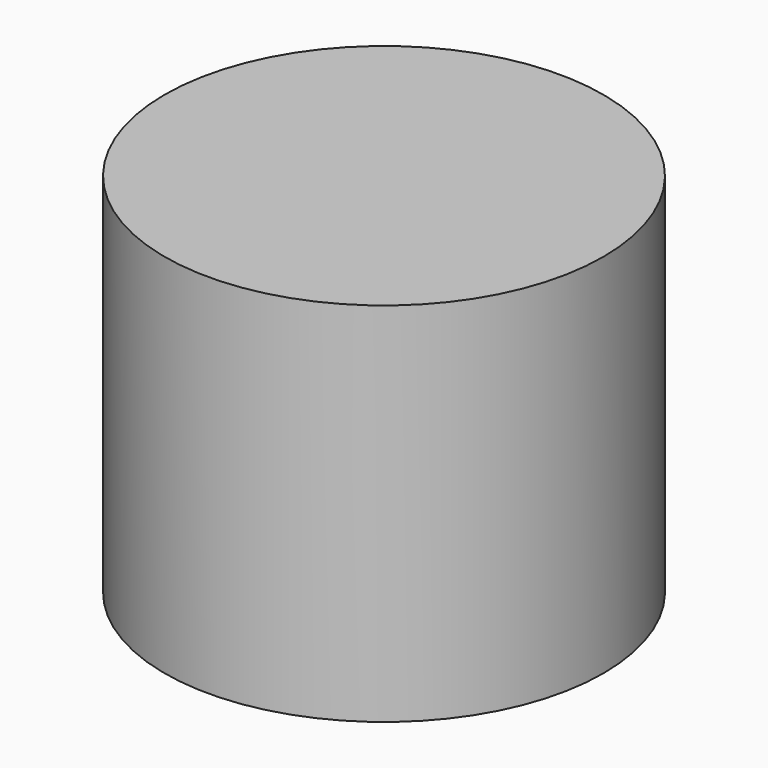
from build123d import *

# Parameters (mm, degrees)
CYLINDER009_R     = 2.65
CYLINDER009_DEPTH = 30
CYLINDER008_R     = 4
CYLINDER008_DEPTH = 3.2
CYLINDER010_R     = 1.375
CYLINDER010_DEPTH = 10
CYLINDER011_R     = 2.6
CYLINDER011_DEPTH = 2.1
ARRAY002_X_COUNT  = 2
ARRAY002_X_PITCH  = 15
CYLINDER007_R     = 37.7
CYLINDER007_DEPTH = 63


with BuildPart() as cylinder009:
    # Cylinder009 → Cylinder009 (new body)
    with BuildSketch(Plane.XY.offset(63)):
        Circle(CYLINDER009_R)
    extrude(amount=CYLINDER009_DEPTH)


with BuildPart() as cylinder008:
    # Cylinder008 → Cylinder008 (new body)
    with BuildSketch(Plane.XY.offset(64.8)):
        Circle(CYLINDER008_R)
    extrude(amount=CYLINDER008_DEPTH)


with BuildPart() as cylinder010:
    # Cylinder010 → Cylinder010 (new body)
    with BuildSketch(Plane.XY):
        Circle(CYLINDER010_R)
    extrude(amount=CYLINDER010_DEPTH)


with BuildPart() as fusion005:
    # Cylinder011 → Cylinder011 (new body)
    with BuildSketch(Plane.XY):
        Circle(CYLINDER011_R)
    extrude(amount=CYLINDER011_DEPTH)

    # Fusion004: union Cylinder010
    add(cylinder010.part)


with BuildPart() as fusion005_1:
    # Fusion004 placement: moved
    add(fusion005.part.moved(Location((0, 0, 63))))

    # Array002 X: Fusion005 ×2


with BuildPart() as fusion005_2:
    add(fusion005_1.part)
    with Locations(*[(i * ARRAY002_X_PITCH, 0, 0) for i in range(1, ARRAY002_X_COUNT)]):
        add(fusion005_1.part)


with BuildPart() as fusion005_3:
    # Array002 placement: moved
    add(fusion005_2.part.moved(Location((-7.5, 0, 0))))

    # Fusion005: union Cylinder009, Cylinder008
    add(cylinder009.part)
    add(cylinder008.part)


with BuildPart() as cut007:
    # Cylinder007 → Cylinder007 (new body)
    with BuildSketch(Plane.XY):
        Circle(CYLINDER007_R)
    extrude(amount=CYLINDER007_DEPTH)

    # Cut007: cut Fusion005
    add(fusion005_3.part, mode=Mode.SUBTRACT)


solid = cut007.part
